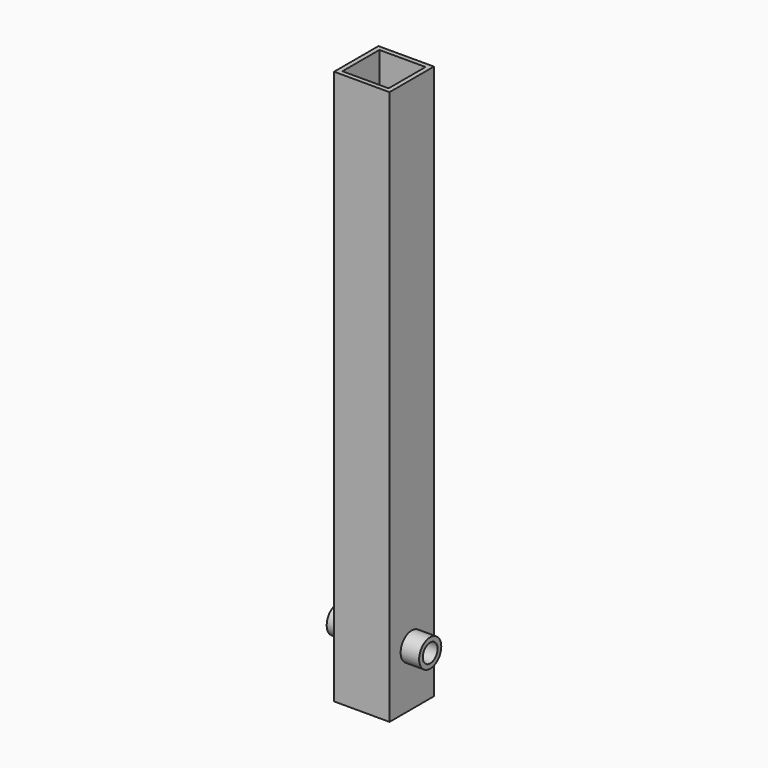
from build123d import *

# Parameters (mm, degrees)
F0_W          = 76.2
F0_H          = 76.2
F0_W_2        = 63.5
F0_H_2        = 63.5
F1_DEPTH      = 762
F2_R          = 19.05
F3_DEPTH      = 25.4
F3_DEPTH_BACK = 101.6
F4_R          = 12.7
F5_DEPTH      = 127.001


with BuildPart() as f1:
    # F0 (on Top) → F1 (new body)
    with BuildSketch(Plane.XY):
        Rectangle(F0_W, F0_H)
        Rectangle(F0_W_2, F0_H_2, mode=Mode.SUBTRACT)
    extrude(amount=F1_DEPTH)

    # F2 (on face) → F3 (join, two sides)
    with BuildSketch(Plane.YZ.offset(38.1)) as f3_sk:
        with Locations((0, 76.2)):
            Circle(F2_R)
    extrude(amount=F3_DEPTH)
    extrude(f3_sk.sketch, amount=-F3_DEPTH_BACK)

    # F4 (on face) → F5 (cut, through all)
    with BuildSketch(Plane(origin=(-63.5, 0, 0), x_dir=(0, -1, 0), z_dir=(-1, 0, 0))):
        with Locations((0, 76.2)):
            Circle(F4_R)
    extrude(amount=-F5_DEPTH, mode=Mode.SUBTRACT)


solid = f1.part
